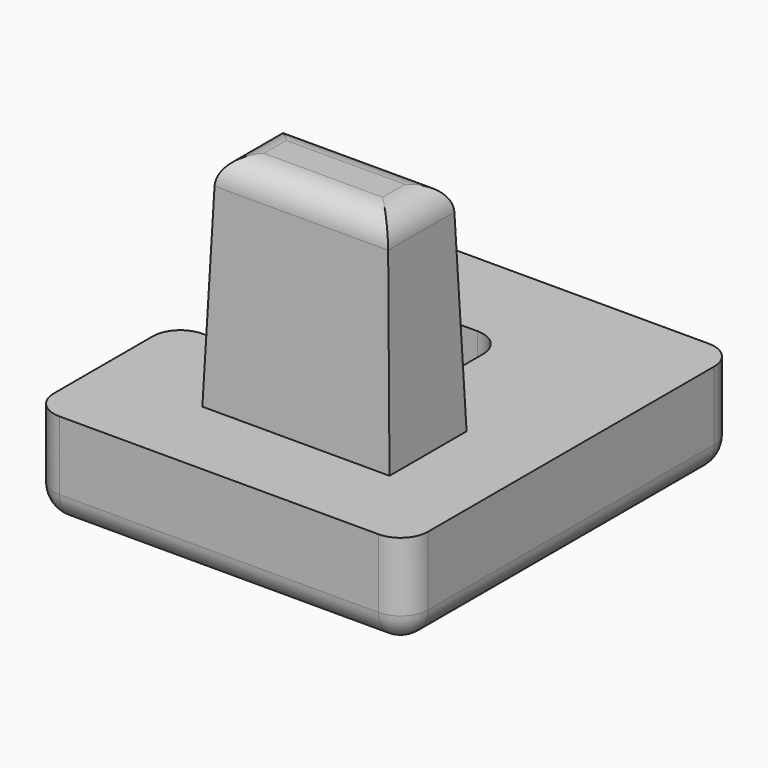
from build123d import *

# Parameters (mm, degrees)
F0_W     = 6.8
F0_H     = 3.5
F1_DEPTH = 8
F1_TAPER = 2
F3_DEPTH = 3.5
F4_R     = 1


with BuildPart() as f1:
    # F0 (on Top) → F1 (new body)
    with BuildSketch(Plane.XY):
        Rectangle(F0_W, F0_H)
    extrude(amount=F1_DEPTH, taper=F1_TAPER)

    # F2 (on face) → F3 (join)
    with BuildSketch(Plane(origin=(0, 0, 0), x_dir=(1, 0, 0), z_dir=(0, 0, -1))):
        with BuildLine():
            Line((3.4, -1.75), (-0.2, -1.75))
            ThreePointArc((-0.2, -1.75), (0.5071067812, -2.0428932188), (0.8, -2.75))
            Line((0.8, -2.75), (0.8, -5.75))
            ThreePointArc((0.8, -5.75), (0.5071067812, -6.4571067812), (-0.2, -6.75))
            Line((-0.2, -6.75), (-3.4, -6.75))
            Line((-3.4, -6.75), (-6.2, -6.75))
            ThreePointArc((-6.2, -6.75), (-6.9071067812, -7.0428932188), (-7.2, -7.75))
            Line((-7.2, -7.75), (-7.2, -9.25))
            ThreePointArc((-7.2, -9.25), (-6.9071067812, -9.9571067812), (-6.2, -10.25))
            Line((-6.2, -10.25), (-3.6740736105, -10.25))
            Line((-3.6740736105, -10.25), (-3.4, -10.25))
            Line((-3.4, -10.25), (5.4, -10.25))
            ThreePointArc((5.4, -10.25), (6.1071067812, -9.9571067812), (6.4, -9.25))
            Line((6.4, -9.25), (6.4, -4.75))
            Line((6.4, -4.75), (6.4, 3.75))
            ThreePointArc((6.4, 3.75), (6.1071067812, 4.4571067812), (5.4, 4.75))
            Line((5.4, 4.75), (-3.4, 4.75))
            Line((-3.4, 4.75), (-6.2, 4.75))
            ThreePointArc((-6.2, 4.75), (-6.9071067812, 4.4571067812), (-7.2, 3.75))
            Line((-7.2, 3.75), (-7.2, -0.75))
            ThreePointArc((-7.2, -0.75), (-6.9071067812, -1.4571067812), (-6.2, -1.75))
            Line((-6.2, -1.75), (-3.4, -1.75))
            Line((-3.4, -1.75), (-3.4, 1.75))
            Line((-3.4, 1.75), (3.4, 1.75))
            Line((3.4, 1.75), (3.4, -1.75))
        make_face()
        Polygon((-3.4, -1.75), (-0.2, -1.75), (3.4, -1.75), (3.4, 1.75), (-3.4, 1.75), align=None)
    extrude(amount=F3_DEPTH)

    # F4
    f4_edges = [f1.edges().sort_by_distance(p)[0] for p in [
        (-0.4, 10.25, -3.5),
        (0, 1.470634, 8),
        (0, -1.470634, 8),
        (-3.120634, 0, 8),
        (3.120634, 0, 8),
    ]]
    fillet(f4_edges, radius=F4_R)


solid = f1.part
